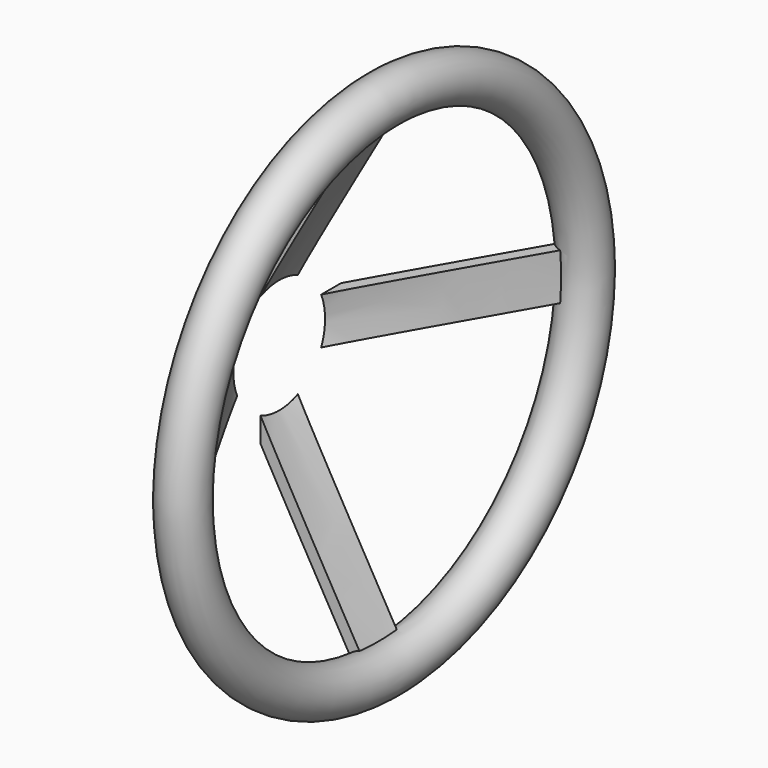
from build123d import *

# Parameters (mm, degrees)
F2_W     = 100
F2_H     = 100
F3_DEPTH = 100
F4_R     = 10
F6_W     = 96.7741915935
F6_H     = 197.4193443438
F7_DEPTH = 50


with BuildPart() as f1:
    # F0 (on Front) → F1 (revolve)
    with BuildSketch(Plane.XZ):
        Polygon((59.1784025919, 102.5), (0, 0), (5.7735026919, 0), (63.5085296109, 100), align=None)
    revolve(axis=Axis((20.5558100715, 0, 0), (1, 0, 0)))

    # F2 (on Right) → F3 (cut)
    with BuildSketch(Plane.YZ):
        with Locations((60, 60)):
            Rectangle(F2_W, F2_H)
        with Locations((60, -60)):
            Rectangle(F2_W, F2_H)
        with Locations((-60, 60)):
            Rectangle(F2_W, F2_H)
        with Locations((-60, -60)):
            Rectangle(F2_W, F2_H)
    extrude(amount=F3_DEPTH, mode=Mode.SUBTRACT)

    # F4 (on Front) → F5 (revolve)
    with BuildSketch(Plane.XZ):
        with Locations((65, 107.8704196738)):
            Circle(F4_R)
    revolve(axis=Axis((29.1963377967, 0, 0), (1, 0, 0)))

    # F6 (on Front) → F7 (cut, symmetric)
    with BuildSketch(Plane.XZ):
        with Locations((-28.3870957967, -5.0861872733)):
            Rectangle(F6_W, F6_H)
    extrude(amount=F7_DEPTH, both=True, mode=Mode.SUBTRACT)


solid = f1.part
